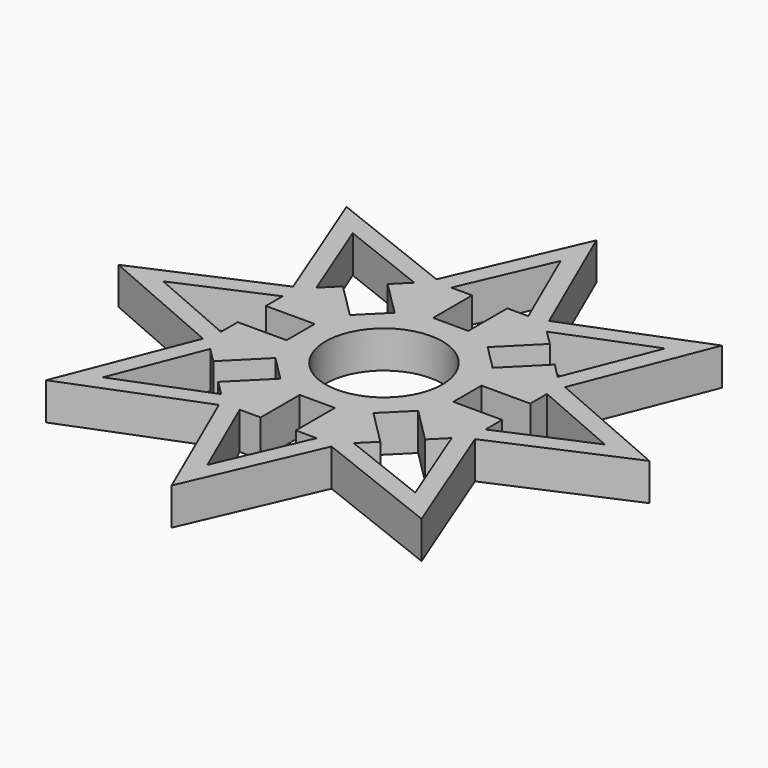
from build123d import *

# Parameters (mm, degrees)
F0_R     = 11
F1_DEPTH = 7


with BuildPart() as f1:
    # F0 (on Top) → F1 (new body)
    with BuildSketch(Plane.XY):
        Polygon((0, 50), (-10.606602, 25.606602), (-35.355339, 35.355339), (-25.606602, 10.606602), (-50, 0), (-25.606602, -10.606602), (-35.355339, -35.355339), (-10.606602, -25.606602), (0, -50), (10.606602, -25.606602), (35.355339, -35.355339), (25.606602, -10.606602), (50, 0), (25.606602, 10.606602), (35.355339, 35.355339), (10.606602, 25.606602), align=None)
        Polygon((7.252651, -24.896849), (0, -41.576724), (-7.252651, -24.896849), (-3.311682, -24.896849), (-3.311682, -15.702289), (0, -15.702289), (3.311682, -15.702289), (3.311682, -24.896849), align=None, mode=Mode.SUBTRACT)
        Polygon((-12.476332, -22.733129), (-29.399184, -29.399184), (-22.733129, -12.476332), (-19.946444, -15.263018), (-13.444908, -8.761482), (-11.103195, -11.103195), (-8.761482, -13.444908), (-15.263018, -19.946444), align=None, mode=Mode.SUBTRACT)
        Polygon((22.733129, -12.476332), (29.399184, -29.399184), (12.476332, -22.733129), (15.263018, -19.946444), (8.761482, -13.444908), (11.103195, -11.103195), (13.444908, -8.761482), (19.946444, -15.263018), align=None, mode=Mode.SUBTRACT)
        Polygon((-24.896849, -7.252651), (-41.576724, 0), (-24.896849, 7.252651), (-24.896849, 3.311682), (-15.702289, 3.311682), (-15.702289, 0), (-15.702289, -3.311682), (-24.896849, -3.311682), align=None, mode=Mode.SUBTRACT)
        Polygon((-22.733129, 12.476332), (-29.399184, 29.399184), (-12.476332, 22.733129), (-15.263018, 19.946444), (-8.761482, 13.444908), (-11.103195, 11.103195), (-13.444908, 8.761482), (-19.946444, 15.263018), align=None, mode=Mode.SUBTRACT)
        Circle(F0_R, mode=Mode.SUBTRACT)
        Polygon((12.476332, 22.733129), (29.399184, 29.399184), (22.733129, 12.476332), (19.946444, 15.263018), (13.444908, 8.761482), (11.103195, 11.103195), (8.761482, 13.444908), (15.263018, 19.946444), align=None, mode=Mode.SUBTRACT)
        Polygon((24.896849, 7.252651), (41.576724, 0), (24.896849, -7.252651), (24.896849, -3.311682), (15.702289, -3.311682), (15.702289, 0), (15.702289, 3.311682), (24.896849, 3.311682), align=None, mode=Mode.SUBTRACT)
        Polygon((-7.252651, 24.896849), (0, 41.576724), (7.252651, 24.896849), (3.311682, 24.896849), (3.311682, 15.702289), (0, 15.702289), (-3.311682, 15.702289), (-3.311682, 24.896849), align=None, mode=Mode.SUBTRACT)
    extrude(amount=F1_DEPTH)


solid = f1.part
